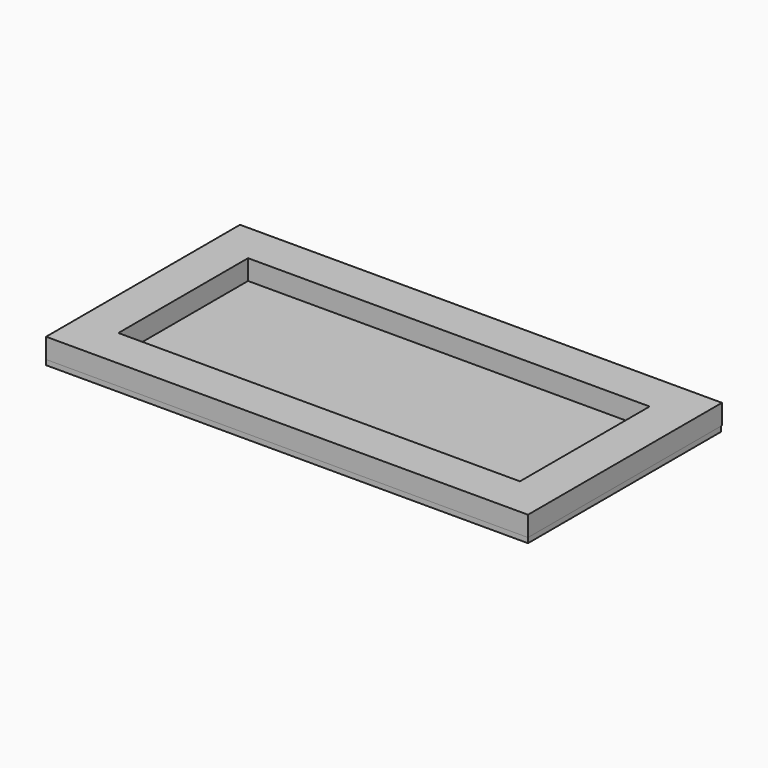
from build123d import *

# Parameters (mm, degrees)
F0_W     = 1219.2
F0_H     = 609.6
F1_DEPTH = 12.7
F2_W     = 101.6
F2_H     = 410.08788
F3_DEPTH = 50.8


with BuildPart() as f1:
    # F0 (on Top) → F1 (new body)
    with BuildSketch(Plane.XY):
        with Locations((0, -1.84394)):
            Rectangle(F0_W, F0_H)
    extrude(amount=-F1_DEPTH)


with BuildPart() as f3:
    # F2 (on face) → F3 (new body)
    with BuildSketch(Plane.XY):
        Polygon((-609.6, -205.04394), (-609.6, -306.64394), (609.6, -306.64394), (609.6, -205.04394), (508, -205.04394), (-508, -205.04394), align=None)
        with Locations((-558.8, 0)):
            Rectangle(F2_W, F2_H)
        with Locations((558.8, 0)):
            Rectangle(F2_W, F2_H)
        Polygon((-609.6, 306.64394), (-609.6, 205.04394), (-508, 205.04394), (508, 205.04394), (609.6, 205.04394), (609.6, 306.64394), align=None)
    extrude(amount=F3_DEPTH)


solid = Compound([f1.part, f3.part])
